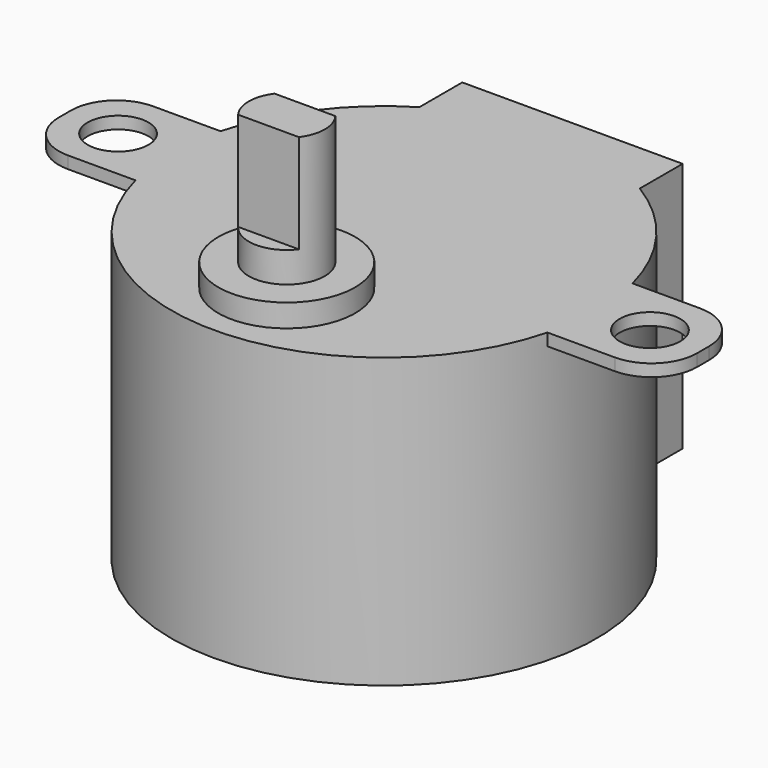
from build123d import *

# Parameters (mm, degrees)
CYLINDER007_R             = 2
CYLINDER007_DEPTH         = 20
CYLINDER006_R             = 2
CYLINDER006_DEPTH         = 20
CYLINDER009_R             = 4.5
CYLINDER009_DEPTH         = 19.5
BOX005_W                  = 7
BOX005_H                  = 42
BOX005_DEPTH              = 0.8
FILLET004_R               = 3
FILLET005_R               = 3
FILLET006_R               = 3
FILLET007_R               = 3
BOX004_W                  = 10
BOX004_H                  = 14.5
BOX004_DEPTH              = 16.5
CYLINDER005_R             = 14
CYLINDER005_DEPTH         = 19
BOX006_W                  = 10
BOX006_H                  = 10
BOX006_DEPTH              = 10
BOX007_W                  = 10
BOX007_H                  = 10
BOX007_DEPTH              = 10
CYLINDER008_R             = 2.5
CYLINDER008_DEPTH         = 28
FUSION007_PLACEMENT_ANGLE = 90


with BuildPart() as cylinder007:
    # Cylinder007 → Cylinder007 (new body)
    with BuildSketch(Plane(origin=(0, -17.5, 14), x_dir=(1, 0, 0), z_dir=(0, 0, 1))):
        Circle(CYLINDER007_R)
    extrude(amount=CYLINDER007_DEPTH)


with BuildPart() as cylinder006:
    # Cylinder006 → Cylinder006 (new body)
    with BuildSketch(Plane(origin=(0, 17.5, 14), x_dir=(1, 0, 0), z_dir=(0, 0, 1))):
        Circle(CYLINDER006_R)
    extrude(amount=CYLINDER006_DEPTH)


with BuildPart() as shaft_boss001:
    # Cylinder009 → Cylinder009 (new body)
    with BuildSketch(Plane(origin=(-8, 0, 1), x_dir=(1, 0, 0), z_dir=(0, 0, 1))):
        Circle(CYLINDER009_R)
    extrude(amount=CYLINDER009_DEPTH)


with BuildPart() as fillet007:
    # Box005 → Box005 (new body)
    with BuildSketch(Plane(origin=(-3.5, -21, 18.2), x_dir=(1, 0, 0), z_dir=(0, 0, 1))):
        with Locations((3.5, 21)):
            Rectangle(BOX005_W, BOX005_H)
    extrude(amount=BOX005_DEPTH)

    # Fillet004
    fillet004_edges = [fillet007.edges().sort_by_distance(p)[0] for p in [
        (3.5, -21, 18.6),
    ]]
    fillet(fillet004_edges, radius=FILLET004_R)

    # Fillet005
    fillet005_edges = [fillet007.edges().sort_by_distance(p)[0] for p in [
        (-3.5, -21, 18.6),
    ]]
    fillet(fillet005_edges, radius=FILLET005_R)

    # Fillet006
    fillet006_edges = [fillet007.edges().sort_by_distance(p)[0] for p in [
        (-3.5, 21, 18.6),
    ]]
    fillet(fillet006_edges, radius=FILLET006_R)

    # Fillet007
    fillet007_edges = [fillet007.edges().sort_by_distance(p)[0] for p in [
        (3.5, 21, 18.6),
    ]]
    fillet(fillet007_edges, radius=FILLET007_R)


with BuildPart() as cube004:
    # Box004 → Box004 (new body)
    with BuildSketch(Plane(origin=(5.5, -7.25, 2.5), x_dir=(1, 0, 0), z_dir=(0, 0, 1))):
        with Locations((5, 7.25)):
            Rectangle(BOX004_W, BOX004_H)
    extrude(amount=BOX004_DEPTH)


with BuildPart() as motor_body001:
    # Cylinder005 → Cylinder005 (new body)
    with BuildSketch(Plane.XY):
        Circle(CYLINDER005_R)
    extrude(amount=CYLINDER005_DEPTH)

    # Fusion004: union Cube004
    add(cube004.part)

    # Fusion005: union Fillet007
    add(fillet007.part)

    # Fusion006: union shaft-boss001
    add(shaft_boss001.part)

    # Cut006: cut Cylinder006
    add(cylinder006.part, mode=Mode.SUBTRACT)

    # Cut007: cut Cylinder007
    add(cylinder007.part, mode=Mode.SUBTRACT)


with BuildPart() as cube006:
    # Box006 → Box006 (new body)
    with BuildSketch(Plane(origin=(-6.5, -5, 22.5), x_dir=(1, 0, 0), z_dir=(0, 0, 1))):
        with Locations((5, 5)):
            Rectangle(BOX006_W, BOX006_H)
    extrude(amount=BOX006_DEPTH)


with BuildPart() as cube007:
    # Box007 → Box007 (new body)
    with BuildSketch(Plane(origin=(-19.5, -5, 22.5), x_dir=(1, 0, 0), z_dir=(0, 0, 1))):
        with Locations((5, 5)):
            Rectangle(BOX007_W, BOX007_H)
    extrude(amount=BOX007_DEPTH)


with BuildPart() as obj1:
    # Cylinder008 → Cylinder008 (new body)
    with BuildSketch(Plane(origin=(-8, 0, 1), x_dir=(1, 0, 0), z_dir=(0, 0, 1))):
        Circle(CYLINDER008_R)
    extrude(amount=CYLINDER008_DEPTH)

    # Cut004: cut Cube007
    add(cube007.part, mode=Mode.SUBTRACT)

    # Cut005: cut Cube006
    add(cube006.part, mode=Mode.SUBTRACT)

    # Fusion007: union motor-body001
    add(motor_body001.part)


with BuildPart() as obj1_1:
    # Fusion007 placement: moved
    add(obj1.part.moved(Location((-0.1, 15, 7))).rotate(Axis((-0.1, 15, 7), (0, 0, 1)), FUSION007_PLACEMENT_ANGLE))


solid = obj1_1.part
